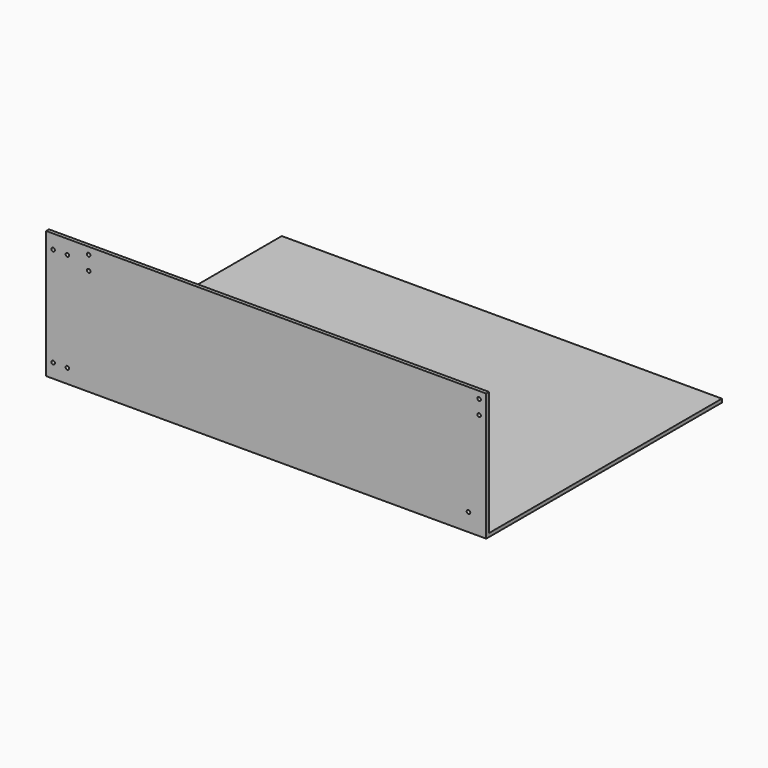
from build123d import *

# Parameters (mm, degrees)
F0_W      = 620
F0_H      = 415
F1_DEPTH  = 5
F2_W      = 620
F2_H      = 5
F3_DEPTH  = 175
F5_D      = 5
F7_D      = 5
F9_D      = 5
F11_D     = 5
F15_D     = 5
F17_D     = 5
F19_D     = 5
F19_DEPTH = 11
F20_D     = 5
F20_DEPTH = 11


with BuildPart() as f1:
    # F0 (on Top) → F1 (new body)
    with BuildSketch(Plane.XY):
        Rectangle(F0_W, F0_H)
    extrude(amount=F1_DEPTH)

    # F2 (on face) → F3 (join)
    with BuildSketch(Plane.XY.offset(5)):
        with Locations((0, -205)):
            Rectangle(F2_W, F2_H)
    extrude(amount=F3_DEPTH)

    # F5 (through all)
    with Locations(Plane.XZ.offset(207.5)):
        with Locations((300, 170)):
            Hole(F5_D / 2)

    # F7 (through all)
    with Locations(Plane.XZ.offset(207.5)):
        with Locations((300, 150)):
            Hole(F7_D / 2)

    # F9 (through all)
    with Locations(Plane.XZ.offset(207.5)):
        with Locations((-250, 170)):
            Hole(F9_D / 2)

    # F11 (through all)
    with Locations(Plane.XZ.offset(207.5)):
        with Locations((-250, 150)):
            Hole(F11_D / 2)

    # F15 (through all)
    with Locations(Plane(origin=(0, 0, 0), x_dir=(1, 0, 0), z_dir=(0, 0, -1))):
        with Locations((290, 195)):
            Hole(F15_D / 2)

    # F17 (through all)
    with Locations(Plane(origin=(0, 0, 0), x_dir=(1, 0, 0), z_dir=(0, 0, -1))):
        with Locations((-290, 195)):
            Hole(F17_D / 2)

    # F19
    with Locations(Plane.XZ.offset(207.5)):
        with Locations((285, 25)):
            Hole(F19_D / 2, depth=F19_DEPTH)

    # F20
    with Locations(Plane.XZ.offset(207.5)):
        with Locations((-300, 20), (-280, 20), (-300, 160), (-280, 160)):
            Hole(F20_D / 2, depth=F20_DEPTH)


solid = f1.part
